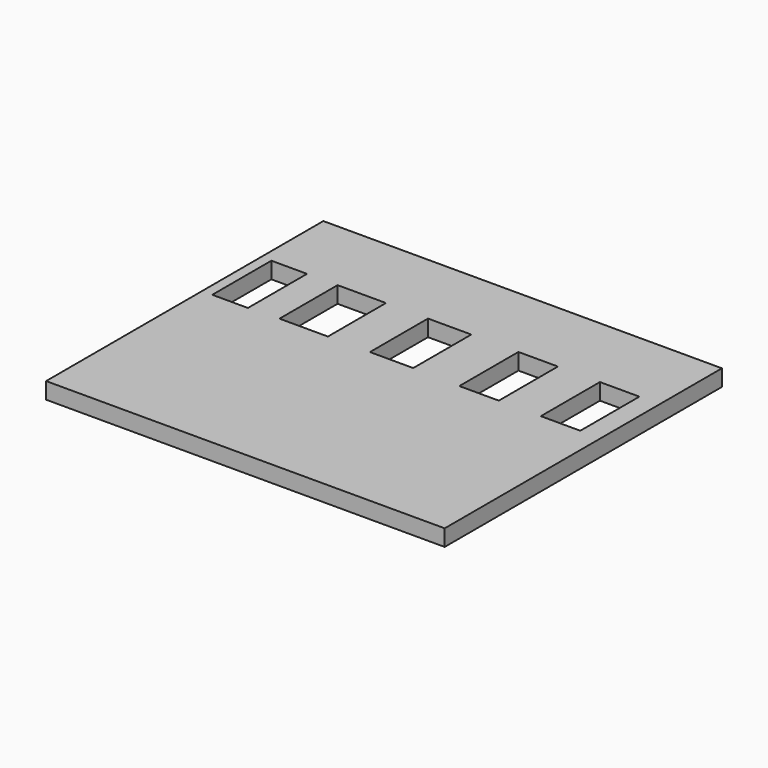
from build123d import *

# Parameters (mm, degrees)
F0_W     = 61.6839
F0_H     = 53.62702
F1_DEPTH = 2.54
F2_W     = 7.488623
F2_H     = 11.23293
F2_W_2   = 6.700344
F2_W_3   = 6.109137
F2_H_2   = 11.43
F2_W_4   = 5.517929
F3_DEPTH = 25.4


with BuildPart() as f1:
    # F0 (on Top) → F1 (new body)
    with BuildSketch(Plane.XY):
        with Locations((30.84195, -26.81351)):
            Rectangle(F0_W, F0_H)
    extrude(amount=F1_DEPTH)

    # F2 (on face) → F3 (cut)
    with BuildSketch(Plane.XY.offset(2.54)):
        with Locations((15.568449, -17.637672)):
            Rectangle(F2_W, F2_H)
        with Locations((29.166207, -17.637672)):
            Rectangle(F2_W_2, F2_H)
        with Locations((42.862499, -17.736207)):
            Rectangle(F2_W_3, F2_H_2)
        with Locations((55.474916, -17.736207)):
            Rectangle(F2_W_3, F2_H_2)
        with Locations((4.335517, -17.736207)):
            Rectangle(F2_W_4, F2_H_2)
    extrude(amount=-F3_DEPTH, mode=Mode.SUBTRACT)


solid = f1.part
